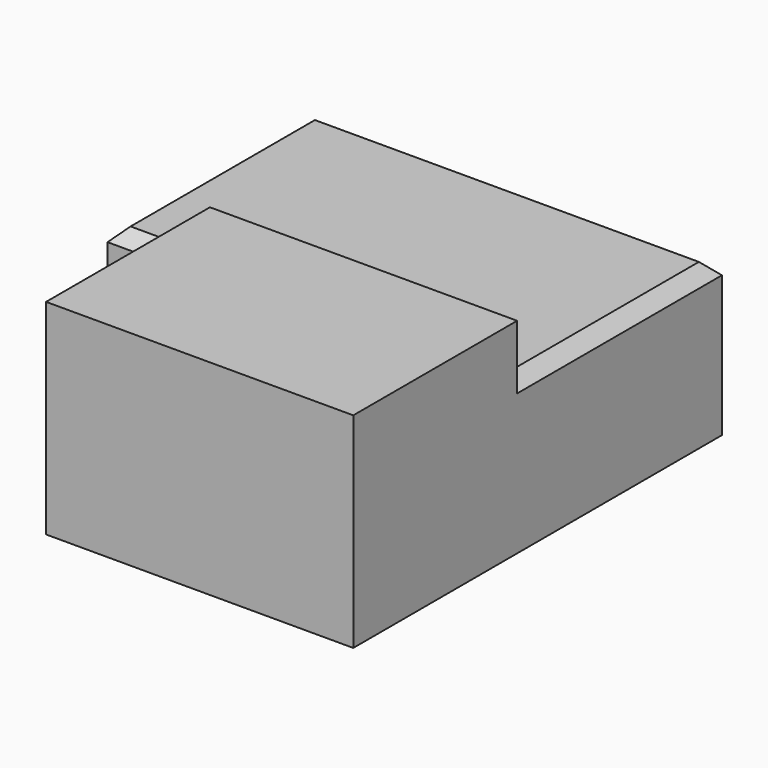
from build123d import *

# Parameters (mm, degrees)
F0_W     = 80
F0_H     = 50
F1_DEPTH = 30
F2_SIZE  = 2.5
F3_W     = 60
F3_H     = 40
F4_DEPTH = 40


with BuildPart() as f1:
    # F0 (on Top) → F1 (new body)
    with BuildSketch(Plane.XY):
        with Locations((-40, -25)):
            Rectangle(F0_W, F0_H)
    extrude(amount=F1_DEPTH)

    # F2
    f2_edges = [f1.edges().sort_by_distance(p)[0] for p in [
        (0, -25, 30),
        (-40, 0, 30),
        (-80, -25, 30),
        (-40, -50, 30),
    ]]
    chamfer(f2_edges, length=F2_SIZE)

    # F3 (on face) → F4 (join)
    with BuildSketch(Plane.XZ.offset(50)):
        with Locations((-30, 20)):
            Rectangle(F3_W, F3_H)
    extrude(amount=F4_DEPTH)


solid = f1.part
